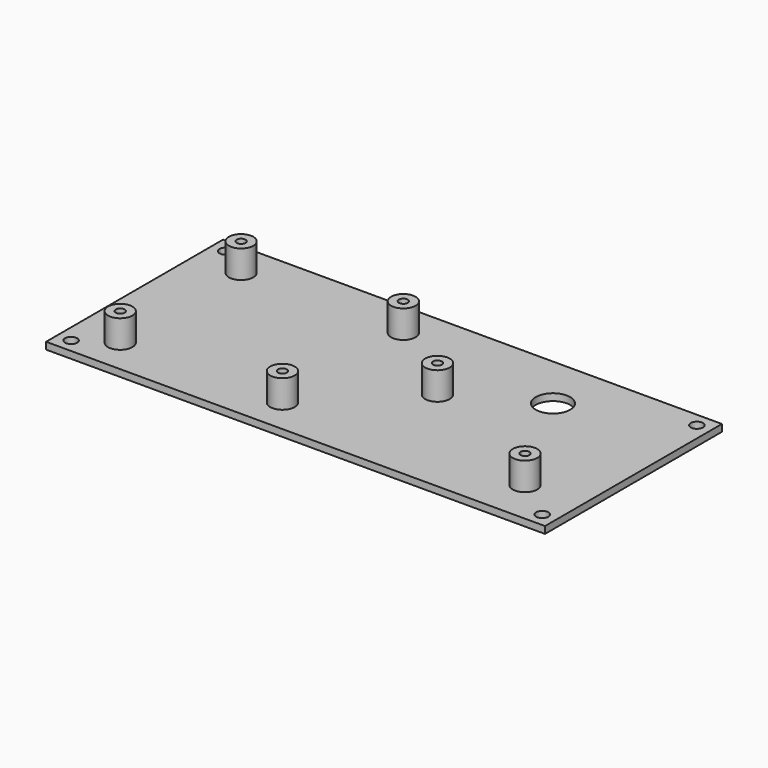
from build123d import *

# Parameters (mm, degrees)
F0_R     = 1.397
F0_R_2   = 2.794
F0_R_3   = 3.937
F0_R_4   = 1.016
F1_DEPTH = 1.5875
F2_DEPTH = 6.35


with BuildPart() as f1:
    # F0 (on Top) → F1 (new body)
    with BuildSketch(Plane.XY):
        Polygon((53.848, -25.273), (57.023, -25.273), (57.023, -22.098), (57.023, 22.098), (57.023, 25.273), (53.848, 25.273), (-53.848, 25.273), (-57.023, 25.273), (-57.023, 22.098), (-57.023, -22.098), (-57.023, -25.273), (-53.848, -25.273), align=None)
        with Locations((-53.848, -22.098)):
            Circle(F0_R, mode=Mode.SUBTRACT)
        with Locations((-46.482, -17.272)):
            Circle(F0_R_2, mode=Mode.SUBTRACT)
        with Locations((-9.398, -17.272)):
            Circle(F0_R_2, mode=Mode.SUBTRACT)
        with Locations((53.848, -22.098)):
            Circle(F0_R, mode=Mode.SUBTRACT)
        with Locations((44.323, -15.113)):
            Circle(F0_R_2, mode=Mode.SUBTRACT)
        with Locations((-46.482, 17.272)):
            Circle(F0_R_2, mode=Mode.SUBTRACT)
        with Locations((-53.848, 22.098)):
            Circle(F0_R, mode=Mode.SUBTRACT)
        with Locations((-9.398, 17.272)):
            Circle(F0_R_2, mode=Mode.SUBTRACT)
        with Locations((10.287, 2.413)):
            Circle(F0_R_2, mode=Mode.SUBTRACT)
        with Locations((28.5115, 12.6365)):
            Circle(F0_R_3, mode=Mode.SUBTRACT)
        with Locations((53.848, 22.098)):
            Circle(F0_R, mode=Mode.SUBTRACT)
        with Locations((-9.398, 17.272)):
            Circle(F0_R_2)
        with Locations((-9.398, 17.272)):
            Circle(F0_R_4, mode=Mode.SUBTRACT)
        with Locations((-9.398, -17.272)):
            Circle(F0_R_2)
        with Locations((-9.398, -17.272)):
            Circle(F0_R_4, mode=Mode.SUBTRACT)
        with Locations((-46.482, -17.272)):
            Circle(F0_R_2)
        with Locations((-46.482, -17.272)):
            Circle(F0_R_4, mode=Mode.SUBTRACT)
        with Locations((-46.482, 17.272)):
            Circle(F0_R_2)
        with Locations((-46.482, 17.272)):
            Circle(F0_R_4, mode=Mode.SUBTRACT)
        with Locations((10.287, 2.413)):
            Circle(F0_R_2)
        with Locations((10.287, 2.413)):
            Circle(F0_R_4, mode=Mode.SUBTRACT)
        with Locations((44.323, -15.113)):
            Circle(F0_R_2)
        with Locations((44.323, -15.113)):
            Circle(F0_R_4, mode=Mode.SUBTRACT)
        with Locations((-9.398, 17.272)):
            Circle(F0_R_4)
        with Locations((-9.398, -17.272)):
            Circle(F0_R_4)
        with Locations((-46.482, -17.272)):
            Circle(F0_R_4)
        with Locations((-46.482, 17.272)):
            Circle(F0_R_4)
        with Locations((10.287, 2.413)):
            Circle(F0_R_4)
        with Locations((44.323, -15.113)):
            Circle(F0_R_4)
    extrude(amount=-F1_DEPTH)

    # F0 (on Top) → F2 (join)
    with BuildSketch(Plane.XY):
        with Locations((10.287, 2.413)):
            Circle(F0_R_2)
        with Locations((10.287, 2.413)):
            Circle(F0_R_4, mode=Mode.SUBTRACT)
        with Locations((44.323, -15.113)):
            Circle(F0_R_2)
        with Locations((44.323, -15.113)):
            Circle(F0_R_4, mode=Mode.SUBTRACT)
        with Locations((-9.398, -17.272)):
            Circle(F0_R_2)
        with Locations((-9.398, -17.272)):
            Circle(F0_R_4, mode=Mode.SUBTRACT)
        with Locations((-9.398, 17.272)):
            Circle(F0_R_2)
        with Locations((-9.398, 17.272)):
            Circle(F0_R_4, mode=Mode.SUBTRACT)
        with Locations((-46.482, 17.272)):
            Circle(F0_R_2)
        with Locations((-46.482, 17.272)):
            Circle(F0_R_4, mode=Mode.SUBTRACT)
        with Locations((-46.482, -17.272)):
            Circle(F0_R_2)
        with Locations((-46.482, -17.272)):
            Circle(F0_R_4, mode=Mode.SUBTRACT)
    extrude(amount=F2_DEPTH)


solid = f1.part
